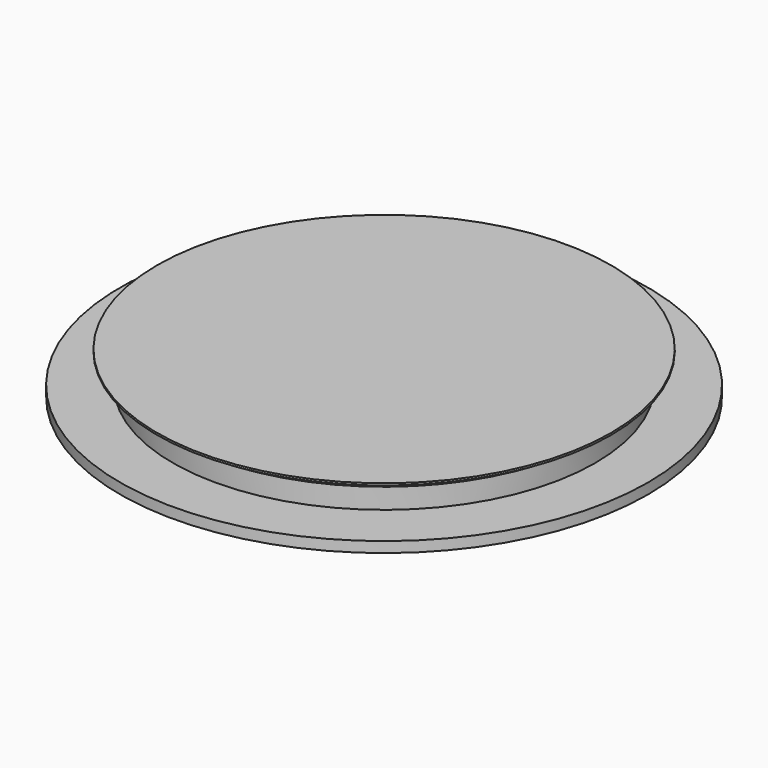
from build123d import *

# Parameters (mm, degrees)
F0_R     = 12.5
F1_DEPTH = 0.5
F2_R     = 10
F3_DEPTH = 1
F4_R     = 10.75
F4_R_2   = 10
F5_DEPTH = 0.5


with BuildPart() as f1:
    # F0 (on Top) → F1 (new body)
    with BuildSketch(Plane.XY):
        Circle(F0_R)
    extrude(amount=F1_DEPTH)

    # F2 (on face) → F3 (join)
    with BuildSketch(Plane.XY.offset(0.5)):
        Circle(F2_R)
    extrude(amount=F3_DEPTH)

    # F4 (on face) → F5 (join)
    with BuildSketch(Plane.XY.offset(1.5)):
        Circle(F4_R)
        Circle(F4_R_2, mode=Mode.SUBTRACT)
        Circle(F4_R_2)
    extrude(amount=F5_DEPTH)

    # F6 (on Front) → F7 (revolve, cut)
    with BuildSketch(Plane.XZ):
        Polygon((-10.8236325905, 1.4508630848), (-10.0277131423, 1.4709283132), (-10.8236325905, 1.9524930976), align=None)
    revolve(axis=Axis((0, 0, 2.0342625212), (0, 0, 1)), mode=Mode.SUBTRACT)


solid = f1.part
